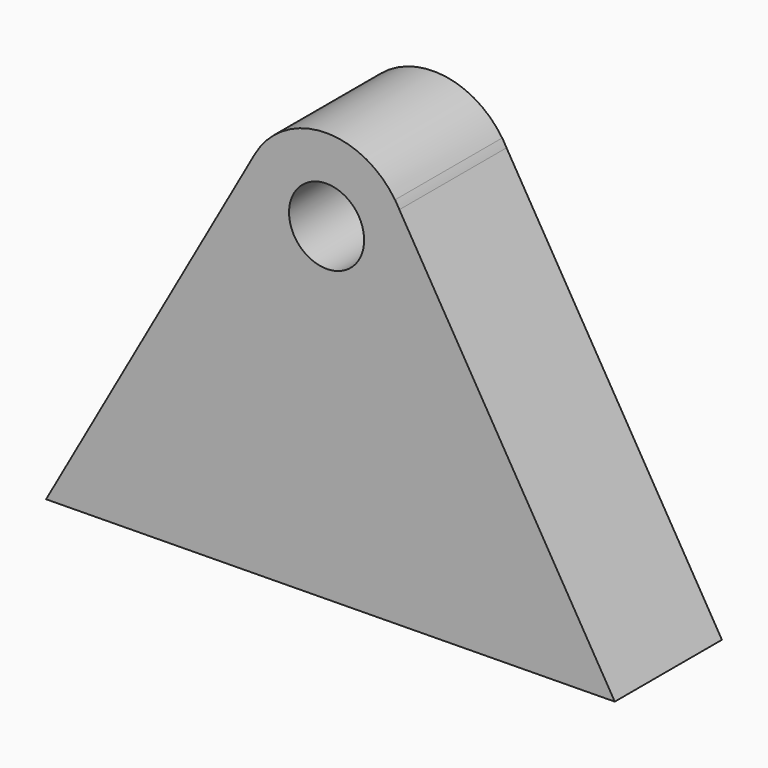
from build123d import *

# Parameters (mm, degrees)
F1_DEPTH = 20.574
F2_R     = 5.7698735651
F3_DEPTH = 25.4


with BuildPart() as f1:
    # F0 (on Front) → F1 (new body)
    with BuildSketch(Plane.XZ):
        with BuildLine():
            Line((43.9826699016, -24.6998913976), (10.8907810138, 31.072659218))
            Line((10.8907810138, 31.072659218), (10.2598580566, 32.1360068765))
            ThreePointArc((10.2598580566, 32.1360068765), (-0.7194738244, 37.7998490981), (-11.2900626191, 31.405516467))
            Line((-11.2900626191, 31.405516467), (-11.3169636884, 31.3576141977))
            Line((-11.3169636884, 31.3576141977), (-43.3820683718, -25.7401637623))
            Line((-43.3820683718, -25.7401637623), (43.9826699016, -24.6998913976))
        make_face()
        with BuildLine():
            ThreePointArc((10.2598580566, 32.1360068765), (10.5883188939, 31.612046041), (10.8907810138, 31.072659218))
            ThreePointArc((10.8907810138, 31.072659218), (10.5725184876, 31.6420632918), (10.2252840901, 32.1942772974))
            Line((10.2252840901, 32.1942772974), (10.2598580566, 32.1360068765))
        make_face()
        with BuildLine():
            Line((10.2598580566, 32.1360068765), (10.8907810138, 31.072659218))
            ThreePointArc((10.8907810138, 31.072659218), (10.5883188939, 31.612046041), (10.2598580566, 32.1360068765))
        make_face()
    extrude(amount=-F1_DEPTH)

    # F2 (on face) → F3 (cut)
    with BuildSketch(Plane(origin=(0, 20.574, 0), x_dir=(-1, 0, 0), z_dir=(0, 1, 0))):
        with Locations((0.2903152937, 25.1967477283)):
            Circle(F2_R)
    extrude(amount=-F3_DEPTH, mode=Mode.SUBTRACT)


solid = f1.part
